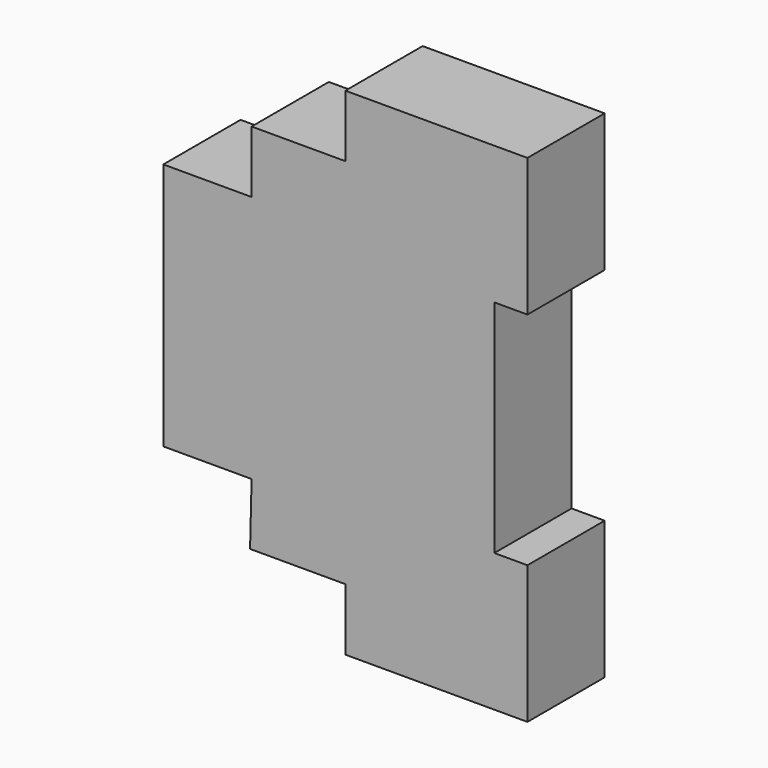
from build123d import *

# Parameters (mm, degrees)
F1_DEPTH  = 17.5
F2_R      = 2.25021
F2_R_2    = 2.117892
F2_R_3    = 2.141219
F2_R_4    = 1.925027
F2_R_5    = 3.371511
F2_R_6    = 3.105781
F2_R_7    = 1.98861
F2_R_8    = 1.899979
F2_R_9    = 1.912547
F3_DEPTH  = 40
F4_R      = 2.117892
F4_R_2    = 2.25021
F5_DEPTH  = 5
F6_R      = 2.141219
F6_R_2    = 1.925027
F7_DEPTH  = 3
F9_DEPTH  = 3
F10_W     = 16.805832
F10_H     = 44.291496
F10_R     = 3.105781
F10_R_2   = 3.371511
F11_DEPTH = 2


with BuildPart() as f1:
    # F0 (on Front) → F1 (new body)
    with BuildSketch(Plane.XZ):
        Polygon((-29.036315, 123.591392), (-62.036315, 123.591392), (-62.036315, 112.341392), (-79.036315, 112.341392), (-79.036315, 101.091392), (-95.036315, 101.091392), (-95.036315, 56.091392), (-79.036315, 56.091392), (-79.313149, 44.841392), (-62.036315, 44.841392), (-62.036315, 33.591392), (-29.036315, 33.591392), (-29.036315, 58.591392), (-35.036315, 58.591392), (-35.036315, 98.591392), (-29.036315, 98.591392), align=None)
    extrude(amount=F1_DEPTH)

    # F2 (on face) → F3 (cut)
    with BuildSketch(Plane(origin=(-95.036315, 0, 0), x_dir=(0, -1, 0), z_dir=(-1, 0, 0))):
        with Locations((13.294209, 118.739031)):
            Circle(F2_R)
        with Locations((4.177382, 118.739031)):
            Circle(F2_R_2)
        with Locations((4.177382, 106.985271)):
            Circle(F2_R_3)
        with Locations((13.294209, 106.985271)):
            Circle(F2_R_4)
        with Locations((4.177382, 95.644102)):
            Circle(F2_R_5)
        with Locations((4.177382, 84.471688)):
            Circle(F2_R_6)
        with Locations((4.177382, 39.11674)):
            Circle(F2_R_7)
        with Locations((8.744364, 39.11674)):
            Circle(F2_R_8)
        with Locations((13.294209, 39.11674)):
            Circle(F2_R_9)
    extrude(amount=-F3_DEPTH, mode=Mode.SUBTRACT)

    # F4 (on face) → F5 (cut)
    with BuildSketch(Plane(origin=(-62.036315, 0, 0), x_dir=(0, -1, 0), z_dir=(-1, 0, 0))):
        with BuildLine():
            Line((13.491717, 121.922452), (4.209779, 121.922452))
            ThreePointArc((4.209779, 121.922452), (2.088459, 121.043773), (1.209779, 118.922452))
            Line((1.209779, 118.922452), (1.209779, 118.510082))
            ThreePointArc((1.209779, 118.510082), (2.088459, 116.388762), (4.209779, 115.510082))
            Line((4.209779, 115.510082), (13.491717, 115.510082))
            ThreePointArc((13.491717, 115.510082), (15.613037, 116.388762), (16.491717, 118.510082))
            Line((16.491717, 118.510082), (16.491717, 118.922452))
            ThreePointArc((16.491717, 118.922452), (15.613037, 121.043773), (13.491717, 121.922452))
        make_face()
        with Locations((4.177382, 118.739031)):
            Circle(F4_R, mode=Mode.SUBTRACT)
        with Locations((13.294209, 118.739031)):
            Circle(F4_R_2, mode=Mode.SUBTRACT)
    extrude(amount=-F5_DEPTH, mode=Mode.SUBTRACT)

    # F6 (on face) → F7 (cut)
    with BuildSketch(Plane(origin=(-79.036315, 0, 0), x_dir=(0, -1, 0), z_dir=(-1, 0, 0))):
        with BuildLine():
            Line((13.656557, 110.275699), (3.933159, 110.275699))
            ThreePointArc((3.933159, 110.275699), (1.811838, 109.397019), (0.933159, 107.275699))
            Line((0.933159, 107.275699), (0.933159, 106.589088))
            ThreePointArc((0.933159, 106.589088), (1.811838, 104.467767), (3.933159, 103.589088))
            Line((3.933159, 103.589088), (13.656557, 103.589088))
            ThreePointArc((13.656557, 103.589088), (15.777877, 104.467767), (16.656557, 106.589088))
            Line((16.656557, 106.589088), (16.656557, 107.275699))
            ThreePointArc((16.656557, 107.275699), (15.777877, 109.397019), (13.656557, 110.275699))
        make_face()
        with Locations((4.177382, 106.985271)):
            Circle(F6_R, mode=Mode.SUBTRACT)
        with Locations((13.294209, 106.985271)):
            Circle(F6_R_2, mode=Mode.SUBTRACT)
    extrude(amount=-F7_DEPTH, mode=Mode.SUBTRACT)

    # F8 (on face) → F9 (cut)
    with BuildSketch(Plane(origin=(-62.036315, 0, 0), x_dir=(0, -1, 0), z_dir=(-1, 0, 0))):
        with BuildLine():
            ThreePointArc((1.226484, 38.683788), (2.105164, 36.562468), (4.226484, 35.683788))
            Line((4.226484, 35.683788), (13.570151, 35.683788))
            ThreePointArc((13.570151, 35.683788), (15.691471, 36.562468), (16.570151, 38.683788))
            Line((16.570151, 38.683788), (16.570151, 39.214782))
            ThreePointArc((16.570151, 39.214782), (15.691471, 41.336103), (13.570151, 42.214782))
            Line((13.570151, 42.214782), (4.226484, 42.214782))
            ThreePointArc((4.226484, 42.214782), (2.105164, 41.336103), (1.226484, 39.214782))
            Line((1.226484, 39.214782), (1.226484, 38.683788))
        make_face()
    extrude(amount=-F9_DEPTH, mode=Mode.SUBTRACT)

    # F10 (on face) → F11 (cut)
    with BuildSketch(Plane(origin=(-95.036315, 0, 0), x_dir=(0, -1, 0), z_dir=(-1, 0, 0))):
        with Locations((8.686814, 78.51769)):
            Rectangle(F10_W, F10_H)
        with Locations((4.177382, 84.471688)):
            Circle(F10_R, mode=Mode.SUBTRACT)
        with Locations((4.177382, 95.644102)):
            Circle(F10_R_2, mode=Mode.SUBTRACT)
    extrude(amount=-F11_DEPTH, mode=Mode.SUBTRACT)


solid = f1.part
